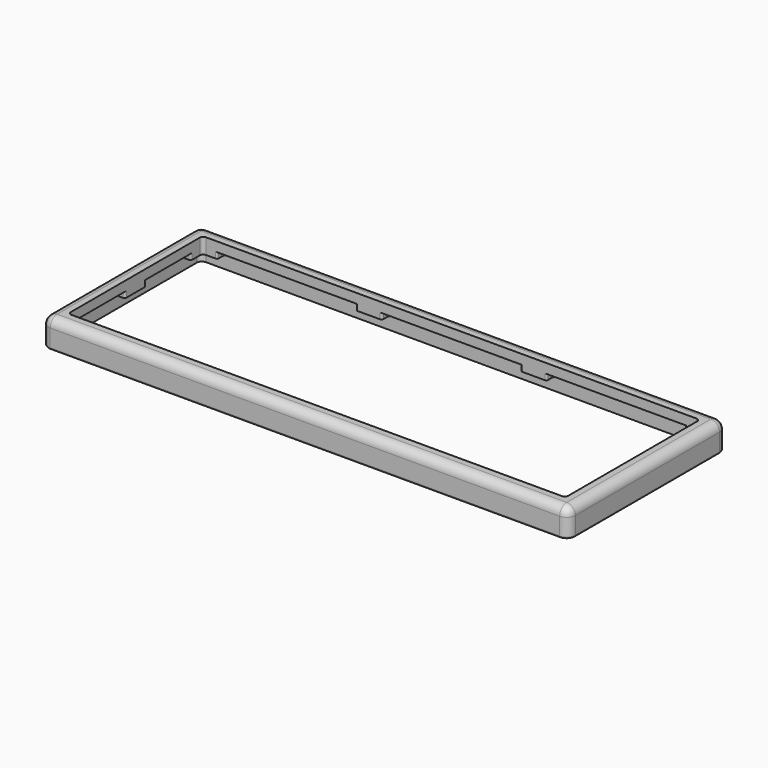
from build123d import *

# Parameters (mm, degrees)
SKETCH001_W     = 304
SKETCH001_H     = 114
SKETCH001_W_2   = 287
SKETCH001_H_2   = 97
PAD_DEPTH       = 16
FILLET_R        = 2
FILLET001_R     = 2
FILLET002_R     = 2
FILLET003_R     = 2
FILLET004_R     = 5
FILLET005_R     = 5
FILLET006_R     = 5
FILLET007_R     = 5
SKETCH002_W     = 297
SKETCH002_H     = 107
POCKET_DEPTH    = 7
FILLET008_R     = 3
FILLET009_R     = 3
FILLET010_R     = 3
FILLET011_R     = 3
SKETCH003_W     = 80
SKETCH003_H     = 5
POCKET001_DEPTH = 3.5
SKETCH004_W     = 5
SKETCH004_H     = 32.5
POCKET002_DEPTH = 3.5
FILLET012_R     = 5
FILLET013_R     = 1
FILLET014_R     = 1
FILLET015_R     = 1
FILLET016_R     = 1
FILLET017_R     = 1
FILLET018_R     = 1
FILLET019_R     = 1
FILLET020_R     = 1
FILLET021_R     = 1
FILLET022_R     = 1
FILLET023_R     = 1
FILLET024_R     = 1
FILLET025_R     = 1
FILLET026_R     = 1
FILLET027_R     = 1
FILLET028_R     = 1
FILLET029_R     = 1
FILLET030_R     = 1
FILLET031_R     = 1
FILLET032_R     = 1
FILLET033_R     = 1
FILLET034_R     = 1
FILLET035_R     = 1
FILLET036_R     = 1
FILLET037_R     = 1
FILLET038_R     = 1
FILLET039_R     = 1
FILLET040_R     = 1
FILLET041_R     = 1
FILLET042_R     = 1
FILLET043_R     = 1
FILLET044_R     = 1
FILLET045_R     = 1
FILLET046_R     = 1
FILLET047_R     = 1
FILLET048_R     = 1
FILLET049_R     = 1
FILLET050_R     = 1
FILLET051_R     = 1
FILLET052_R     = 1
FILLET053_R     = 1


with BuildPart() as part:
    # Sketch001 → Pad (new body)
    with BuildSketch(Plane.XY):
        Rectangle(SKETCH001_W, SKETCH001_H)
        Rectangle(SKETCH001_W_2, SKETCH001_H_2, mode=Mode.SUBTRACT)
    extrude(amount=PAD_DEPTH)

    # Fillet
    fillet_edges = [part.edges().sort_by_distance(p)[0] for p in [
        (-143.5, -48.5, 8),
    ]]
    fillet(fillet_edges, radius=FILLET_R)

    # Fillet001
    fillet001_edges = [part.edges().sort_by_distance(p)[0] for p in [
        (143.5, -48.5, 8),
    ]]
    fillet(fillet001_edges, radius=FILLET001_R)

    # Fillet002
    fillet002_edges = [part.edges().sort_by_distance(p)[0] for p in [
        (-143.5, 48.5, 8),
    ]]
    fillet(fillet002_edges, radius=FILLET002_R)

    # Fillet003
    fillet003_edges = [part.edges().sort_by_distance(p)[0] for p in [
        (143.5, 48.5, 8),
    ]]
    fillet(fillet003_edges, radius=FILLET003_R)

    # Fillet004
    fillet004_edges = [part.edges().sort_by_distance(p)[0] for p in [
        (-152, -57, 8),
    ]]
    fillet(fillet004_edges, radius=FILLET004_R)

    # Fillet005
    fillet005_edges = [part.edges().sort_by_distance(p)[0] for p in [
        (-152, 57, 8),
    ]]
    fillet(fillet005_edges, radius=FILLET005_R)

    # Fillet006
    fillet006_edges = [part.edges().sort_by_distance(p)[0] for p in [
        (152, -57, 8),
    ]]
    fillet(fillet006_edges, radius=FILLET006_R)

    # Fillet007
    fillet007_edges = [part.edges().sort_by_distance(p)[0] for p in [
        (152, 57, 8),
    ]]
    fillet(fillet007_edges, radius=FILLET007_R)

    # Sketch002 (on Face1 of Fillet007) → Pocket (cut)
    with BuildSketch(Plane(origin=(0, 0, 0), x_dir=(1, 0, 0), z_dir=(0, 0, -1))):
        Rectangle(SKETCH002_W, SKETCH002_H)
    extrude(amount=-POCKET_DEPTH, mode=Mode.SUBTRACT)

    # Fillet008
    fillet008_edges = [part.edges().sort_by_distance(p)[0] for p in [
        (-148.5, -53.5, 3.5),
    ]]
    fillet(fillet008_edges, radius=FILLET008_R)

    # Fillet009
    fillet009_edges = [part.edges().sort_by_distance(p)[0] for p in [
        (-148.5, 53.5, 3.5),
    ]]
    fillet(fillet009_edges, radius=FILLET009_R)

    # Fillet010
    fillet010_edges = [part.edges().sort_by_distance(p)[0] for p in [
        (148.5, 53.5, 3.5),
    ]]
    fillet(fillet010_edges, radius=FILLET010_R)

    # Fillet011
    fillet011_edges = [part.edges().sort_by_distance(p)[0] for p in [
        (148.5, -53.5, 3.5),
    ]]
    fillet(fillet011_edges, radius=FILLET011_R)

    # Sketch003 (on Face18 of Fillet011) → Pocket001 (cut)
    with BuildSketch(Plane(origin=(0, 0, 7), x_dir=(1, 0, 0), z_dir=(0, 0, -1))):
        with Locations((0, 51)):
            Rectangle(SKETCH003_W, SKETCH003_H)
        with Locations((0, -51)):
            Rectangle(SKETCH003_W, SKETCH003_H)
        with Locations((-95, 51)):
            Rectangle(SKETCH003_W, SKETCH003_H)
        with Locations((95, 51)):
            Rectangle(SKETCH003_W, SKETCH003_H)
        with Locations((95, -51)):
            Rectangle(SKETCH003_W, SKETCH003_H)
        with Locations((-95, -51)):
            Rectangle(SKETCH003_W, SKETCH003_H)
    extrude(amount=-POCKET001_DEPTH, mode=Mode.SUBTRACT)

    # Sketch004 (on Face18 of Pocket001) → Pocket002 (cut)
    with BuildSketch(Plane(origin=(0, 0, 7), x_dir=(1, 0, 0), z_dir=(0, 0, -1))):
        with Locations((-146, 23.75)):
            Rectangle(SKETCH004_W, SKETCH004_H)
        with Locations((146, 23.75)):
            Rectangle(SKETCH004_W, SKETCH004_H)
        with Locations((146, -23.75)):
            Rectangle(SKETCH004_W, SKETCH004_H)
        with Locations((-146, -23.75)):
            Rectangle(SKETCH004_W, SKETCH004_H)
    extrude(amount=-POCKET002_DEPTH, mode=Mode.SUBTRACT)

    # Fillet012
    fillet012_edges = [part.edges().sort_by_distance(p)[0] for p in [
        (-150.535534, 55.535534, 16),
    ]]
    fillet(fillet012_edges, radius=FILLET012_R)

    # Fillet013
    fillet013_edges = [part.edges().sort_by_distance(p)[0] for p in [
        (-150.535534, 55.535534, 0),
    ]]
    fillet(fillet013_edges, radius=FILLET013_R)

    # Fillet014
    fillet014_edges = [part.edges().sort_by_distance(p)[0] for p in [
        (-135, -48.5, 8.75),
    ]]
    fillet(fillet014_edges, radius=FILLET014_R)

    # Fillet015
    fillet015_edges = [part.edges().sort_by_distance(p)[0] for p in [
        (-143.5, -40, 8.75),
    ]]
    fillet(fillet015_edges, radius=FILLET015_R)

    # Fillet016
    fillet016_edges = [part.edges().sort_by_distance(p)[0] for p in [
        (-135, -53.5, 8.75),
    ]]
    fillet(fillet016_edges, radius=FILLET016_R)

    # Fillet017
    fillet017_edges = [part.edges().sort_by_distance(p)[0] for p in [
        (-148.5, -40, 8.75),
    ]]
    fillet(fillet017_edges, radius=FILLET017_R)

    # Fillet018
    fillet018_edges = [part.edges().sort_by_distance(p)[0] for p in [
        (-40, -53.5, 8.75),
    ]]
    fillet(fillet018_edges, radius=FILLET018_R)

    # Fillet019
    fillet019_edges = [part.edges().sort_by_distance(p)[0] for p in [
        (-40, -48.5, 8.75),
    ]]
    fillet(fillet019_edges, radius=FILLET019_R)

    # Fillet020
    fillet020_edges = [part.edges().sort_by_distance(p)[0] for p in [
        (-55, -48.5, 8.75),
    ]]
    fillet(fillet020_edges, radius=FILLET020_R)

    # Fillet021
    fillet021_edges = [part.edges().sort_by_distance(p)[0] for p in [
        (-55, -53.5, 8.75),
    ]]
    fillet(fillet021_edges, radius=FILLET021_R)

    # Fillet022
    fillet022_edges = [part.edges().sort_by_distance(p)[0] for p in [
        (40, -48.5, 8.75),
    ]]
    fillet(fillet022_edges, radius=FILLET022_R)

    # Fillet023
    fillet023_edges = [part.edges().sort_by_distance(p)[0] for p in [
        (40, -53.5, 8.75),
    ]]
    fillet(fillet023_edges, radius=FILLET023_R)

    # Fillet024
    fillet024_edges = [part.edges().sort_by_distance(p)[0] for p in [
        (55, -48.5, 8.75),
    ]]
    fillet(fillet024_edges, radius=FILLET024_R)

    # Fillet025
    fillet025_edges = [part.edges().sort_by_distance(p)[0] for p in [
        (55, -53.5, 8.75),
    ]]
    fillet(fillet025_edges, radius=FILLET025_R)

    # Fillet026
    fillet026_edges = [part.edges().sort_by_distance(p)[0] for p in [
        (148.5, -40, 8.75),
    ]]
    fillet(fillet026_edges, radius=FILLET026_R)

    # Fillet027
    fillet027_edges = [part.edges().sort_by_distance(p)[0] for p in [
        (143.5, -40, 8.75),
    ]]
    fillet(fillet027_edges, radius=FILLET027_R)

    # Fillet028
    fillet028_edges = [part.edges().sort_by_distance(p)[0] for p in [
        (135, -48.5, 8.75),
    ]]
    fillet(fillet028_edges, radius=FILLET028_R)

    # Fillet029
    fillet029_edges = [part.edges().sort_by_distance(p)[0] for p in [
        (135, -53.5, 8.75),
    ]]
    fillet(fillet029_edges, radius=FILLET029_R)

    # Fillet030
    fillet030_edges = [part.edges().sort_by_distance(p)[0] for p in [
        (148.5, 7.5, 8.75),
    ]]
    fillet(fillet030_edges, radius=FILLET030_R)

    # Fillet031
    fillet031_edges = [part.edges().sort_by_distance(p)[0] for p in [
        (143.5, 7.5, 8.75),
    ]]
    fillet(fillet031_edges, radius=FILLET031_R)

    # Fillet032
    fillet032_edges = [part.edges().sort_by_distance(p)[0] for p in [
        (143.5, -7.5, 8.75),
    ]]
    fillet(fillet032_edges, radius=FILLET032_R)

    # Fillet033
    fillet033_edges = [part.edges().sort_by_distance(p)[0] for p in [
        (148.5, -7.5, 8.75),
    ]]
    fillet(fillet033_edges, radius=FILLET033_R)

    # Fillet034
    fillet034_edges = [part.edges().sort_by_distance(p)[0] for p in [
        (148.5, 40, 8.75),
    ]]
    fillet(fillet034_edges, radius=FILLET034_R)

    # Fillet035
    fillet035_edges = [part.edges().sort_by_distance(p)[0] for p in [
        (143.5, 40, 8.75),
    ]]
    fillet(fillet035_edges, radius=FILLET035_R)

    # Fillet036
    fillet036_edges = [part.edges().sort_by_distance(p)[0] for p in [
        (135, 48.5, 8.75),
    ]]
    fillet(fillet036_edges, radius=FILLET036_R)

    # Fillet037
    fillet037_edges = [part.edges().sort_by_distance(p)[0] for p in [
        (135, 53.5, 8.75),
    ]]
    fillet(fillet037_edges, radius=FILLET037_R)

    # Fillet038
    fillet038_edges = [part.edges().sort_by_distance(p)[0] for p in [
        (40, 53.5, 8.75),
    ]]
    fillet(fillet038_edges, radius=FILLET038_R)

    # Fillet039
    fillet039_edges = [part.edges().sort_by_distance(p)[0] for p in [
        (40, 48.5, 8.75),
    ]]
    fillet(fillet039_edges, radius=FILLET039_R)

    # Fillet040
    fillet040_edges = [part.edges().sort_by_distance(p)[0] for p in [
        (55, 48.5, 8.75),
    ]]
    fillet(fillet040_edges, radius=FILLET040_R)

    # Fillet041
    fillet041_edges = [part.edges().sort_by_distance(p)[0] for p in [
        (55, 53.5, 8.75),
    ]]
    fillet(fillet041_edges, radius=FILLET041_R)

    # Fillet042
    fillet042_edges = [part.edges().sort_by_distance(p)[0] for p in [
        (-40, 53.5, 8.75),
    ]]
    fillet(fillet042_edges, radius=FILLET042_R)

    # Fillet043
    fillet043_edges = [part.edges().sort_by_distance(p)[0] for p in [
        (-40, 48.5, 8.75),
    ]]
    fillet(fillet043_edges, radius=FILLET043_R)

    # Fillet044
    fillet044_edges = [part.edges().sort_by_distance(p)[0] for p in [
        (-55, 53.5, 8.75),
    ]]
    fillet(fillet044_edges, radius=FILLET044_R)

    # Fillet045
    fillet045_edges = [part.edges().sort_by_distance(p)[0] for p in [
        (-55, 48.5, 8.75),
    ]]
    fillet(fillet045_edges, radius=FILLET045_R)

    # Fillet046
    fillet046_edges = [part.edges().sort_by_distance(p)[0] for p in [
        (-135, 53.5, 8.75),
    ]]
    fillet(fillet046_edges, radius=FILLET046_R)

    # Fillet047
    fillet047_edges = [part.edges().sort_by_distance(p)[0] for p in [
        (-135, 48.5, 8.75),
    ]]
    fillet(fillet047_edges, radius=FILLET047_R)

    # Fillet048
    fillet048_edges = [part.edges().sort_by_distance(p)[0] for p in [
        (-143.5, 40, 8.75),
    ]]
    fillet(fillet048_edges, radius=FILLET048_R)

    # Fillet049
    fillet049_edges = [part.edges().sort_by_distance(p)[0] for p in [
        (-148.5, 40, 8.75),
    ]]
    fillet(fillet049_edges, radius=FILLET049_R)

    # Fillet050
    fillet050_edges = [part.edges().sort_by_distance(p)[0] for p in [
        (-148.5, 7.5, 8.75),
    ]]
    fillet(fillet050_edges, radius=FILLET050_R)

    # Fillet051
    fillet051_edges = [part.edges().sort_by_distance(p)[0] for p in [
        (-143.5, 7.5, 8.75),
    ]]
    fillet(fillet051_edges, radius=FILLET051_R)

    # Fillet052
    fillet052_edges = [part.edges().sort_by_distance(p)[0] for p in [
        (-148.5, -7.5, 8.75),
    ]]
    fillet(fillet052_edges, radius=FILLET052_R)

    # Fillet053
    fillet053_edges = [part.edges().sort_by_distance(p)[0] for p in [
        (-143.5, -7.5, 8.75),
    ]]
    fillet(fillet053_edges, radius=FILLET053_R)


solid = part.part
